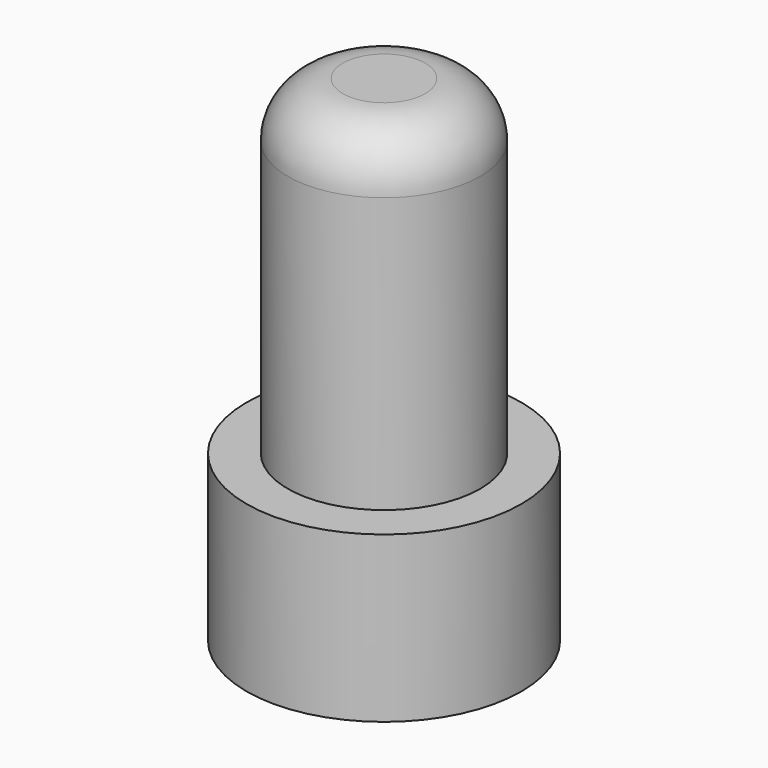
from build123d import *

# Parameters (mm, degrees)
CYLINDER001_R     = 1.75
CYLINDER001_DEPTH = 9
CYLINDER_R        = 2.5
CYLINDER_DEPTH    = 3
FILLET_R          = 1


with BuildPart() as cilindro001:
    # Cylinder001 → Cylinder001 (new body)
    with BuildSketch(Plane.XY):
        Circle(CYLINDER001_R)
    extrude(amount=CYLINDER001_DEPTH)


with BuildPart() as fillet_body:
    # Cylinder → Cylinder (new body)
    with BuildSketch(Plane.XY):
        Circle(CYLINDER_R)
    extrude(amount=CYLINDER_DEPTH)

    # Fusion: union Cilindro001
    add(cilindro001.part)

    # Fillet
    fillet_edges = [fillet_body.edges().sort_by_distance(p)[0] for p in [
        (-1.75, 0, 9),
    ]]
    fillet(fillet_edges, radius=FILLET_R)


solid = fillet_body.part
